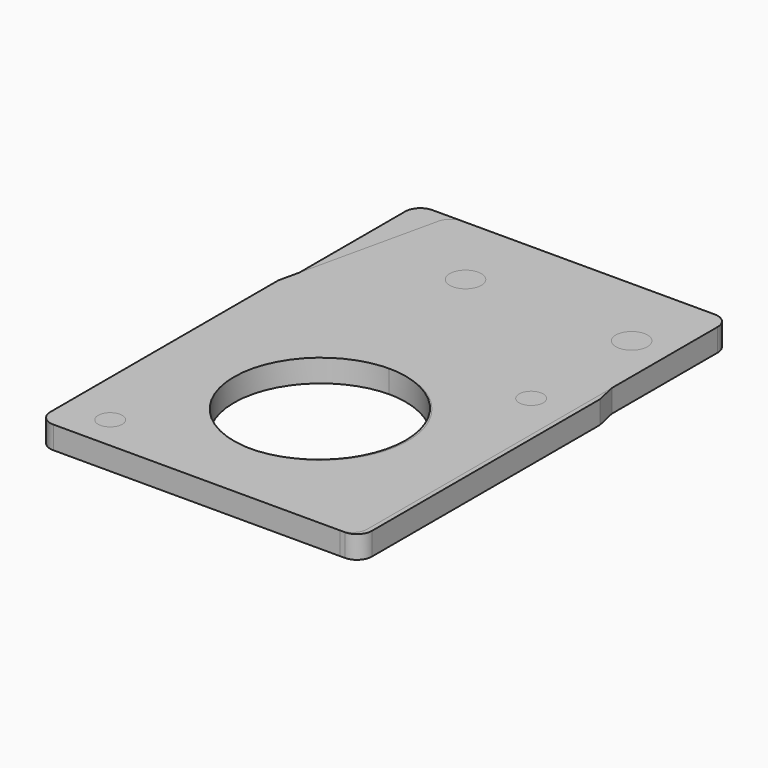
from build123d import *

# Parameters (mm, degrees)
F0_R     = 11.5
F0_R_2   = 1.6
F0_R_3   = 2.1
F1_DEPTH = 3


with BuildPart() as f1:
    # F0 (on Top) → F1 (new body)
    with BuildSketch(Plane.XY):
        with BuildLine():
            Line((14.705361, 13.578521), (-18.694024, 13.578521))
            ThreePointArc((-18.694024, 13.578521), (-20.108237, 12.992735), (-20.694024, 11.578521))
            Line((-20.694024, 11.578521), (-20.694024, -46.421479))
            ThreePointArc((-20.694024, -46.421479), (-20.108237, -47.835692), (-18.694024, -48.421479))
            Line((-18.694024, -48.421479), (19.305976, -48.421479))
            ThreePointArc((19.305976, -48.421479), (20.72019, -47.835692), (21.305976, -46.421479))
            Line((21.305976, -46.421479), (21.305976, -8.682704))
            Line((21.305976, -8.682704), (16.656745, 12.016813))
            ThreePointArc((16.656745, 12.016813), (15.955044, 13.140024), (14.705361, 13.578521))
        make_face()
        with Locations((-0.129063, -28.421479)):
            Circle(F0_R, mode=Mode.SUBTRACT)
        with Locations((15.370937, -43.921479)):
            Circle(F0_R_2, mode=Mode.SUBTRACT)
        with Locations((-15.629063, -12.974368)):
            Circle(F0_R_2, mode=Mode.SUBTRACT)
        with Locations((-15.694024, 3.578521)):
            Circle(F0_R_3, mode=Mode.SUBTRACT)
        with Locations((6.305976, 3.578521)):
            Circle(F0_R_3, mode=Mode.SUBTRACT)
    extrude(amount=F1_DEPTH)


with BuildPart() as f2_1:
    # F2: instance of F1
    add(f1.part.mirror(Plane.YZ))


solid = Compound([f1.part, f2_1.part])
